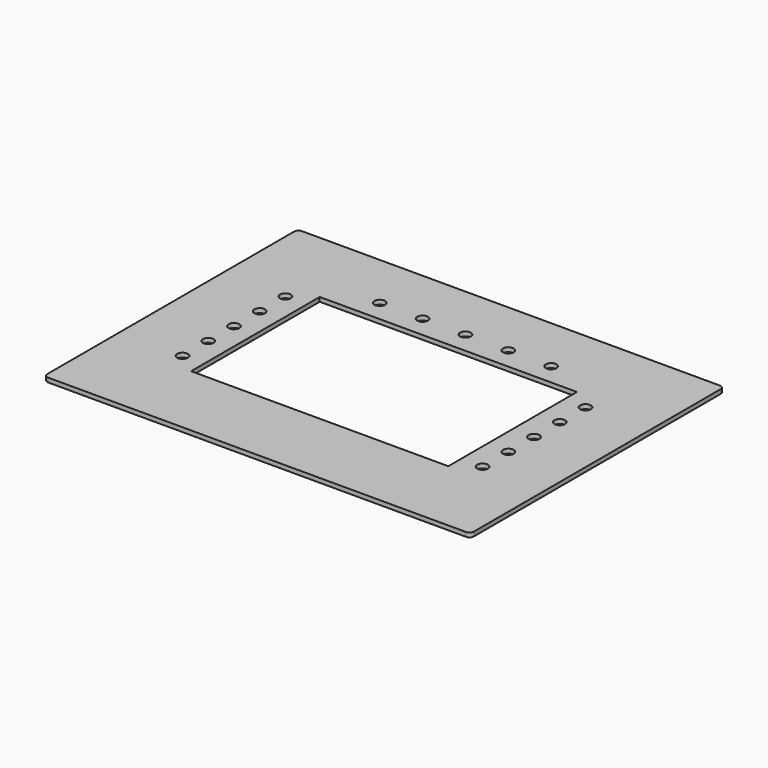
from build123d import *

# Parameters (mm, degrees)
PAD_DEPTH       = 2
SKETCH001_W     = 120
SKETCH001_H     = 75
POCKET_DEPTH    = 7
SKETCH002_R     = 2.5
POCKET001_DEPTH = 7
SKETCH003_R     = 2.5
POCKET002_DEPTH = 7


with BuildPart() as part:
    # Sketch → Pad (new body)
    with BuildSketch(Plane.XY):
        with BuildLine():
            Line((-97.5, 74), (97.5, 74))
            ThreePointArc((99.5, 72), (98.914214, 73.414214), (97.5, 74))
            Line((99.5, 72), (99.5, -72))
            ThreePointArc((97.5, -74), (98.914214, -73.414214), (99.5, -72))
            Line((97.5, -74), (-97.5, -74))
            ThreePointArc((-99.5, -72), (-98.914214, -73.414214), (-97.5, -74))
            Line((-99.5, -72), (-99.5, 72))
            ThreePointArc((-97.5, 74), (-98.914214, 73.414214), (-99.5, 72))
        make_face()
    extrude(amount=PAD_DEPTH)

    # Sketch001 → Pocket (cut)
    with BuildSketch(Plane.XY):
        Rectangle(SKETCH001_W, SKETCH001_H)
    extrude(amount=POCKET_DEPTH, mode=Mode.SUBTRACT)

    # Sketch002 → Pocket001 (cut)
    with BuildSketch(Plane.XY):
        with Locations((0, 47.5)):
            Circle(SKETCH002_R)
        with Locations((-40, 47.5)):
            Circle(SKETCH002_R)
        with Locations((-20, 47.5)):
            Circle(SKETCH002_R)
        with Locations((20, 47.5)):
            Circle(SKETCH002_R)
        with Locations((40, 47.5)):
            Circle(SKETCH002_R)
    extrude(amount=POCKET001_DEPTH, mode=Mode.SUBTRACT)

    # Sketch003 → Pocket002 (cut)
    with BuildSketch(Plane.XY):
        with Locations((-70, 0)):
            Circle(SKETCH003_R)
        with Locations((-70, 15)):
            Circle(SKETCH003_R)
        with Locations((-70, 30)):
            Circle(SKETCH003_R)
        with Locations((-70, -15)):
            Circle(SKETCH003_R)
        with Locations((-70, -30)):
            Circle(SKETCH003_R)
    pocket002 = extrude(amount=POCKET002_DEPTH, mode=Mode.SUBTRACT)

    # Mirrored: Pocket002 across Sketch003 V_Axis
    add(pocket002.mirror(Plane(origin=(0, 0, 0), x_dir=(0, 0, 1), z_dir=(1, 0, 0))), mode=Mode.SUBTRACT)


solid = part.part
